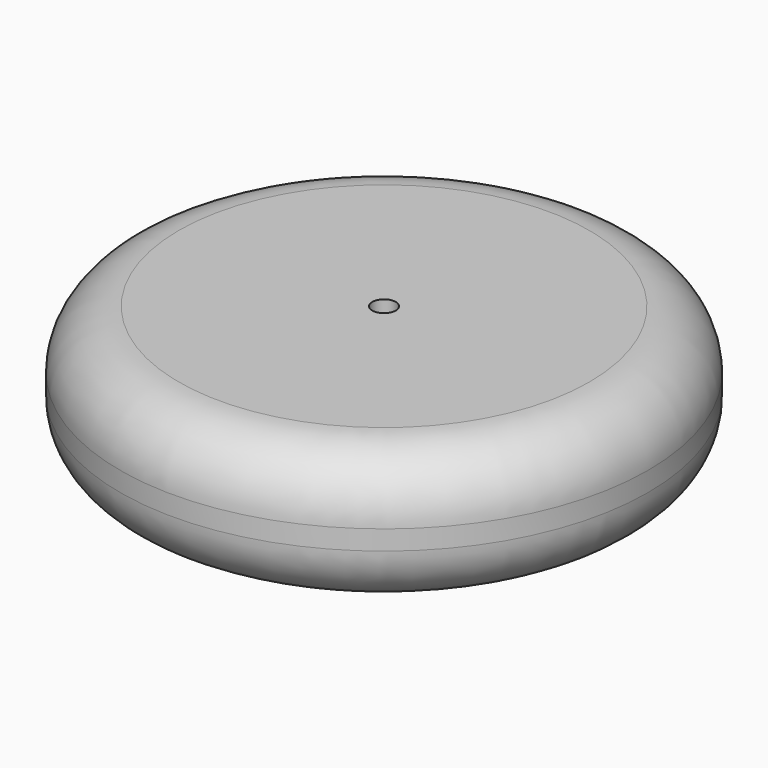
from build123d import *

# Parameters (mm, degrees)
F0_R     = 13.5
F1_DEPTH = 7
F2_D     = 1.2
F3_R     = 3


with BuildPart() as f1:
    # F0 (on Top) → F1 (new body)
    with BuildSketch(Plane.XY):
        Circle(F0_R)
    extrude(amount=F1_DEPTH)

    # F2 (through all)
    with Locations(Plane(origin=(0, 0, 0), x_dir=(1, 0, 0), z_dir=(0, 0, -1))):
        with Locations((0, 0)):
            Hole(F2_D / 2)

    # F3
    f3_edges = [f1.edges().sort_by_distance(p)[0] for p in [
        (-13.5, 0, 0),
        (-13.5, 0, 7),
    ]]
    fillet(f3_edges, radius=F3_R)


solid = f1.part
